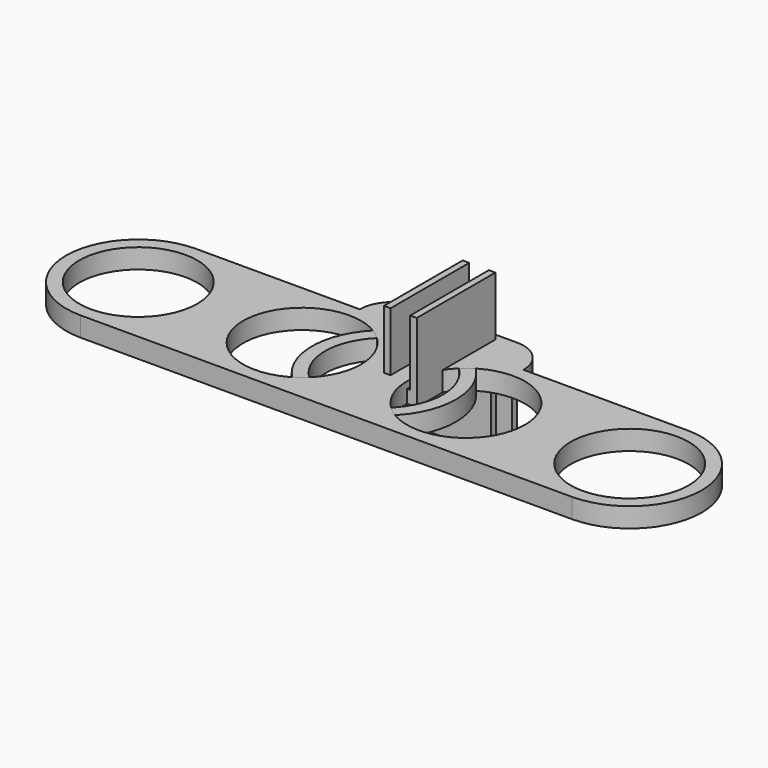
from build123d import *

# Parameters (mm, degrees)
SKETCH_W      = 5
SKETCH_H      = 15
PAD_DEPTH     = 2
SKETCH001_W   = 1
SKETCH001_H   = 15
PAD001_DEPTH  = 10
SKETCH002_R   = 11
SKETCH002_R_2 = 9
PAD002_DEPTH  = 3
SKETCH003_R   = 9
PAD003_DEPTH  = 3
SKETCH004_R   = 4.5
SKETCH004_R_2 = 3.5
PAD004_DEPTH  = 5
SKETCH005_W   = 15
SKETCH005_H   = 1
PAD005_DEPTH  = 10


with BuildPart() as clip:
    # Sketch → Pad (new body)
    with BuildSketch(Plane.XY):
        with Locations((2.5, 7.5)):
            Rectangle(SKETCH_W, SKETCH_H)
    extrude(amount=PAD_DEPTH)

    # Sketch001 (on Face6 of Pad) → Pad001 (join)
    with BuildSketch(Plane.XY.offset(2)):
        with Locations((0.5, 7.5)):
            Rectangle(SKETCH001_W, SKETCH001_H)
        with Locations((4.5, 7.5)):
            Rectangle(SKETCH001_W, SKETCH001_H)
    extrude(amount=PAD001_DEPTH)


with BuildPart() as obj1:
    # Sketch002 → Pad002 (new body)
    with BuildSketch(Plane.XY):
        Circle(SKETCH002_R)
        Circle(SKETCH002_R_2, mode=Mode.SUBTRACT)
    extrude(amount=PAD002_DEPTH)


with BuildPart() as main:
    # Sketch003 → Pad003 (new body)
    with BuildSketch(Plane.XY):
        with BuildLine():
            ThreePointArc((37.5, -11), (48.5, 0), (37.5, 11))
            Line((12.5, 11), (37.5, 11))
            ThreePointArc((12.5, 11), (11.035534, 14.535534), (7.5, 16))
            Line((-7.5, 16), (7.5, 16))
            ThreePointArc((-7.5, 16), (-11.035534, 14.535534), (-12.5, 11))
            Line((-37.5, 11), (-12.5, 11))
            ThreePointArc((-37.5, 11), (-48.5, 0), (-37.5, -11))
            Line((-37.5, -11), (37.5, -11))
        make_face()
        with Locations((37.5, 0)):
            Circle(SKETCH003_R, mode=Mode.SUBTRACT)
        with Locations((-37.5, 0)):
            Circle(SKETCH003_R, mode=Mode.SUBTRACT)
        with Locations((-12.5, 0)):
            Circle(SKETCH003_R, mode=Mode.SUBTRACT)
        with Locations((12.5, 0)):
            Circle(SKETCH003_R, mode=Mode.SUBTRACT)
    extrude(amount=PAD003_DEPTH)

    # Sketch004 (on Face14 of Pad003) → Pad004 (join)
    with BuildSketch(Plane.XY.offset(3)):
        with Locations((0, 11)):
            Circle(SKETCH004_R)
        with Locations((0, 11)):
            Circle(SKETCH004_R_2, mode=Mode.SUBTRACT)
    extrude(amount=PAD004_DEPTH)

    # Sketch005 (on Face4 of Pad004) → Pad005 (join)
    with BuildSketch(Plane(origin=(0, 0, 0), x_dir=(1, 0, 0), z_dir=(0, 0, -1))):
        with Locations((0, -15.5)):
            Rectangle(SKETCH005_W, SKETCH005_H)
        with Locations((0, -11.5)):
            Rectangle(SKETCH005_W, SKETCH005_H)
    extrude(amount=PAD005_DEPTH)


solid = Compound([clip.part, obj1.part, main.part])
